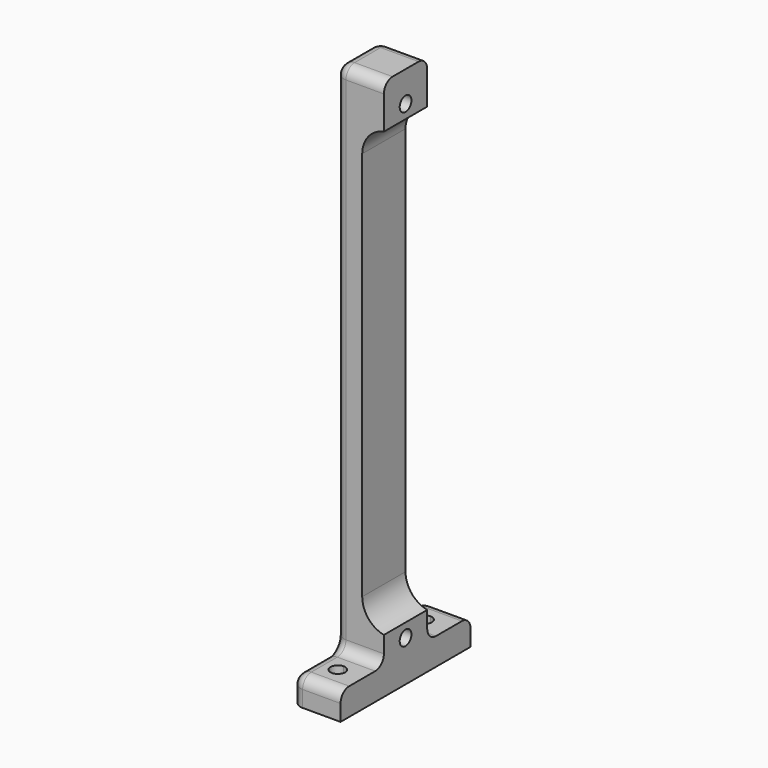
from build123d import *

# Parameters (mm, degrees)
F1_DEPTH = 25.4
F2_R     = 3.429
F3_DEPTH = 147.32
F4_W     = 22.8622798618
F4_H     = 12.7
F5_DEPTH = 25.4
F6_DEPTH = 76.2
F8_DEPTH = 25.4
F9_R     = 5.08


with BuildPart() as f1:
    # F0 (on Front) → F1 (new body)
    with BuildSketch(Plane.XZ):
        with BuildLine():
            Line((-25.4, 124.5236706513), (-25.4, 91.1413904513))
            Line((-25.4, 91.1413904513), (-25.4, -91.1413904513))
            Line((-25.4, -91.1413904513), (-25.4, -91.4211095487))
            Line((-25.4, -91.4211095487), (-25.4, -129.4763404513))
            Line((-25.4, -129.4763404513), (-2.5377201382, -129.4763404513))
            Line((-2.5377201382, -129.4763404513), (-2.5377201382, -103.8838730506))
            ThreePointArc((-2.5377201382, -103.8838730506), (-9.8366418496, -99.4730864008), (-12.7, -91.44))
            Line((-12.7, -91.44), (-12.7, 91.44))
            ThreePointArc((-12.7, 91.44), (-9.8366418496, 99.4730864008), (-2.5377201382, 103.8838730506))
            Line((-2.5377201382, 103.8838730506), (-2.5377201382, 124.5236706513))
            Line((-2.5377201382, 124.5236706513), (-25.4, 124.5236706513))
        make_face()
    extrude(amount=F1_DEPTH)

    # F2 (on face) → F3 (cut)
    with BuildSketch(Plane.YZ.offset(-2.5377201382)):
        with Locations((-12.7, -110.2338730506)):
            Circle(F2_R)
        with Locations((-12.7, 110.2338730506)):
            Circle(F2_R)
    extrude(amount=-F3_DEPTH, mode=Mode.SUBTRACT)

    # F4 (on face) → F5 (join)
    with BuildSketch(Plane.XZ.offset(25.4)):
        with Locations((-13.9688600691, -123.1263404513)):
            Rectangle(F4_W, F4_H)
    extrude(amount=F5_DEPTH)

    # F6 (add): a face of the model
    f6_faces = [f1.faces().sort_by_distance(p)[0] for p in [
        (-13.9688600691, -50.8, -123.1263404513),
    ]]
    extrude(f6_faces, amount=-F6_DEPTH)

    # F7 (on face) → F8 (cut)
    with BuildSketch(Plane.XY.offset(-116.7763404513)):
        with BuildLine():
            Line((-13.9688600691, 9.271), (-13.9688600691, 16.129))
            ThreePointArc((-13.9688600691, 16.129), (-17.3978600691, 12.7), (-13.9688600691, 9.271))
        make_face()
        with BuildLine():
            ThreePointArc((-10.5398600691, -38.1), (-11.5441909164, -35.6753308473), (-13.9688600691, -34.671))
            ThreePointArc((-13.9688600691, -34.671), (-16.3935292218, -40.5246691527), (-10.5398600691, -38.1))
        make_face()
        with BuildLine():
            ThreePointArc((-13.9688600691, 9.271), (-11.5441909164, 10.2753308473), (-10.5398600691, 12.7))
            ThreePointArc((-10.5398600691, 12.7), (-11.5441909164, 15.1246691527), (-13.9688600691, 16.129))
            Line((-13.9688600691, 16.129), (-13.9688600691, 9.271))
        make_face()
    extrude(amount=-F8_DEPTH, mode=Mode.SUBTRACT)

    # F9
    f9_edges = [f1.edges().sort_by_distance(p)[0] for p in [
        (-13.96886, -25.4, 124.523671),
        (-25.4, -12.7, 124.523671),
        (-13.96886, 0, 124.523671),
        (-25.4, -25.4, 3.873665),
        (-25.4, 0, 3.873665),
        (-13.96886, 0, -116.77634),
        (-13.96886, 25.4, -116.77634),
        (-25.4, -38.1, -116.77634),
        (-25.4, 12.7, -116.77634),
        (-25.4, 25.4, -123.12634),
        (-13.96886, -25.4, -116.77634),
        (-25.4, -50.8, -123.12634),
        (-13.96886, -50.8, -116.77634),
    ]]
    fillet(f9_edges, radius=F9_R)


solid = f1.part
